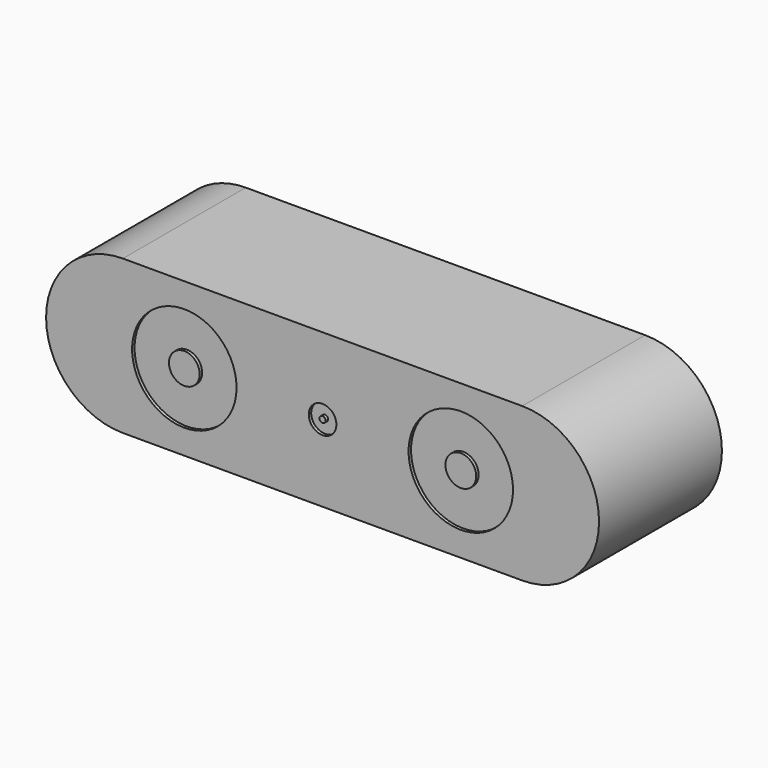
from build123d import *

# Parameters (mm, degrees)
PAD_DEPTH       = 25
SKETCH001_W     = 91
SKETCH001_H     = 26
POCKET_DEPTH    = 25.001
SKETCH002_R     = 1.5
POCKET001_DEPTH = 3
SKETCH004_R     = 1
POCKET002_DEPTH = 5
SKETCH005_R     = 8.5
SKETCH005_R_2   = 2.5
SKETCH005_R_3   = 2.25
SKETCH005_R_4   = 0.5
POCKET003_DEPTH = 0.5
SKETCH006_R     = 1.5
POCKET004_DEPTH = 5


with BuildPart() as part:
    # Sketch → Pad (new body)
    with BuildSketch(Plane.XZ):
        with BuildLine():
            ThreePointArc((-32.5, 12.5), (-45, 0), (-32.5, -12.5))
            Line((-32.5, -12.5), (32.5, -12.5))
            ThreePointArc((32.5, -12.5), (45, 0), (32.5, 12.5))
            Line((-32.5, 12.5), (32.5, 12.5))
        make_face()
    extrude(amount=-PAD_DEPTH)

    # Sketch001 (on Face4 of Pad) → Pocket (cut, through all)
    with BuildSketch(Plane(origin=(0, 0, 12.5), x_dir=(-1, 0, 0), z_dir=(0, 0, 1))):
        with Locations((0, -12.5)):
            Rectangle(SKETCH001_W, SKETCH001_H)
        Polygon((45, -16), (45, -2), (45, 0), (44, 0), (-32.5, 0), (-44.5, 0), (-45, 0), (-45, -3.68), (-45, -23), (-45, -25), (-44, -25), (40, -25), (40, -16), align=None, mode=Mode.SUBTRACT)
    extrude(amount=-POCKET_DEPTH, mode=Mode.SUBTRACT)

    # Sketch002 (on Face5 of Pocket) → Pocket001 (cut)
    with BuildSketch(Plane(origin=(0, 25, 0), x_dir=(1, 0, 0), z_dir=(0, 1, 0))):
        with Locations((22.5, 0)):
            Circle(SKETCH002_R)
        with Locations((-22.5, 0)):
            Circle(SKETCH002_R)
    extrude(amount=-POCKET001_DEPTH, mode=Mode.SUBTRACT)

    # Sketch004 (on Face7 of Pocket001) → Pocket002 (cut)
    with BuildSketch(Plane(origin=(-40, 0, 0), x_dir=(0, 0, -1), z_dir=(-1, 0, 0))):
        with Locations((-7.5, -20.28)):
            Circle(SKETCH004_R)
        with Locations((7.5, -20.28)):
            Circle(SKETCH004_R)
        with BuildLine():
            ThreePointArc((-3.3, -19.08), (-4.5, -20.28), (-3.3, -21.48))
            Line((-3.3, -21.48), (3.3, -21.48))
            ThreePointArc((3.3, -21.48), (4.5, -20.28), (3.3, -19.08))
            Line((-3.3, -19.08), (3.3, -19.08))
        make_face()
    extrude(amount=-POCKET002_DEPTH, mode=Mode.SUBTRACT)

    # Sketch005 (on Face1 of Pocket002) → Pocket003 (cut)
    with BuildSketch(Plane.XZ):
        with Locations((-22.5, 0)):
            Circle(SKETCH005_R)
        with Locations((-22.5, 0)):
            Circle(SKETCH005_R_2, mode=Mode.SUBTRACT)
        with Locations((22.5, 0)):
            Circle(SKETCH005_R)
        with Locations((22.5, 0)):
            Circle(SKETCH005_R_2, mode=Mode.SUBTRACT)
        Circle(SKETCH005_R_3)
        Circle(SKETCH005_R_4, mode=Mode.SUBTRACT)
    extrude(amount=-POCKET003_DEPTH, mode=Mode.SUBTRACT)

    # Sketch006 (on Face5 of Pocket003) → Pocket004 (cut)
    with BuildSketch(Plane(origin=(0, 0, -12.5), x_dir=(1, 0, 0), z_dir=(0, 0, -1))):
        with Locations((-17, -12.5)):
            Circle(SKETCH006_R)
        with Locations((17, -12.5)):
            Circle(SKETCH006_R)
    extrude(amount=-POCKET004_DEPTH, mode=Mode.SUBTRACT)


solid = part.part
